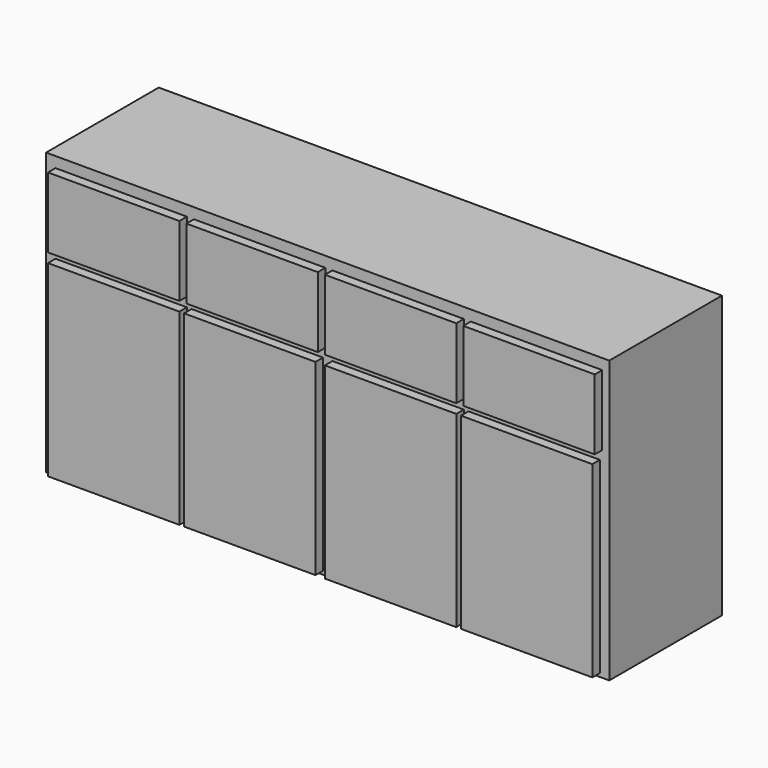
from build123d import *

# Parameters (mm, degrees)
F0_W     = 1828.8
F0_H     = 457.2
F1_DEPTH = 914.4
F2_W     = 426.72
F2_H     = 609.6
F2_H_2   = 228.6
F3_DEPTH = 30.48


with BuildPart() as f1:
    # F0 (on Top) → F1 (new body)
    with BuildSketch(Plane.XY):
        with Locations((-2.849022, 54.689566)):
            Rectangle(F0_W, F0_H)
    extrude(amount=F1_DEPTH)

    # F2 (on face) → F3 (join)
    with BuildSketch(Plane.XZ.offset(173.910434)):
        with Locations((-673.409022, 315.940248)):
            Rectangle(F2_W, F2_H)
        with Locations((-231.449022, 315.940248)):
            Rectangle(F2_W, F2_H)
        with Locations((225.750978, 315.940248)):
            Rectangle(F2_W, F2_H)
        with Locations((667.710978, 315.940248)):
            Rectangle(F2_W, F2_H)
        with Locations((-673.409022, 765.520248)):
            Rectangle(F2_W, F2_H_2)
        with Locations((-223.829022, 765.520248)):
            Rectangle(F2_W, F2_H_2)
        with Locations((225.750978, 765.520248)):
            Rectangle(F2_W, F2_H_2)
        with Locations((675.330978, 765.520248)):
            Rectangle(F2_W, F2_H_2)
    extrude(amount=F3_DEPTH)


solid = f1.part
